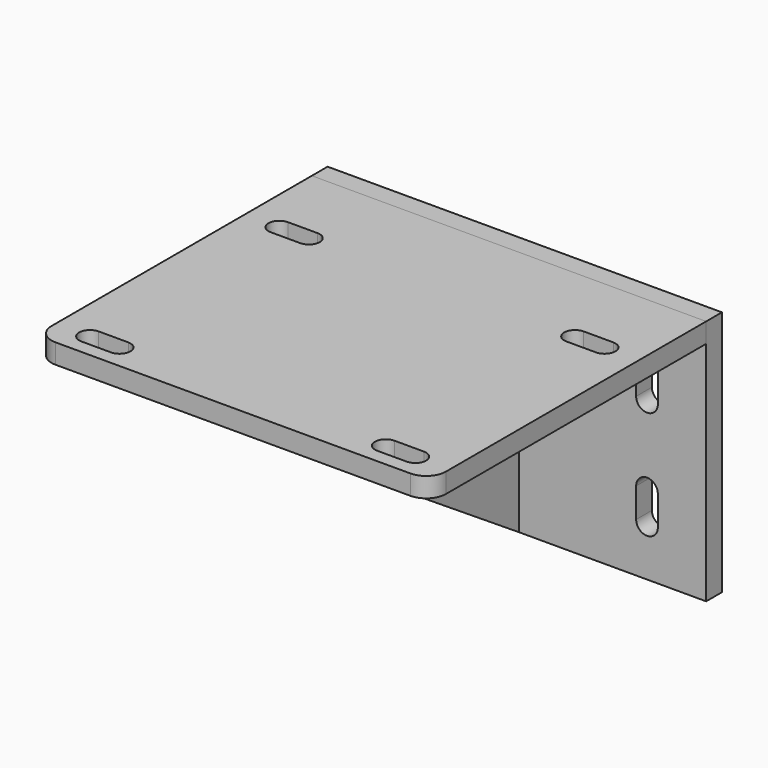
from build123d import *

# Parameters (mm, degrees)
F0_W     = 200
F0_H     = 125
F1_DEPTH = 5
F2_W     = 200
F2_H     = 10
F3_DEPTH = 175
F5_DEPTH = 10.001
F7_DEPTH = 5
F9_DEPTH = 125.001
F10_R    = 10


with BuildPart() as f1:
    # F0 (on Front) → F1 (new body, symmetric)
    with BuildSketch(Plane.XZ):
        Rectangle(F0_W, F0_H)
    extrude(amount=F1_DEPTH, both=True)

    # F4 (on face) → F5 (cut, through all)
    with BuildSketch(Plane.XZ.offset(5)):
        with BuildLine():
            ThreePointArc((-64.5, 32.5), (-70, 38), (-75.5, 32.5))
            Line((-75.5, 32.5), (-75.5, 17.5))
            ThreePointArc((-75.5, 17.5), (-70, 12), (-64.5, 17.5))
            Line((-64.5, 17.5), (-64.5, 32.5))
        make_face()
        with BuildLine():
            ThreePointArc((-64.5, -22.5), (-70, -17), (-75.5, -22.5))
            Line((-75.5, -22.5), (-75.5, -37.5))
            ThreePointArc((-75.5, -37.5), (-70, -43), (-64.5, -37.5))
            Line((-64.5, -37.5), (-64.5, -22.5))
        make_face()
        with BuildLine():
            ThreePointArc((75.5, 32.5), (70, 38), (64.5, 32.5))
            Line((64.5, 32.5), (64.5, 17.5))
            ThreePointArc((64.5, 17.5), (70, 12), (75.5, 17.5))
            Line((75.5, 17.5), (75.5, 32.5))
        make_face()
        with BuildLine():
            Line((75.5, -37.5), (75.5, -22.5))
            ThreePointArc((75.5, -22.5), (70, -17), (64.5, -22.5))
            Line((64.5, -22.5), (64.5, -37.5))
            ThreePointArc((64.5, -37.5), (70, -43), (75.5, -37.5))
        make_face()
    extrude(amount=-F5_DEPTH, mode=Mode.SUBTRACT)


with BuildPart() as f3:
    # F2 (on face) → F3 (new body)
    with BuildSketch(Plane.XZ.offset(5)):
        with Locations((0, 57.5)):
            Rectangle(F2_W, F2_H)
    extrude(amount=F3_DEPTH)

    # F8 (on face) → F9 (cut, through all)
    with BuildSketch(Plane.XY.offset(62.5)):
        with BuildLine():
            ThreePointArc((67.5, -42), (62, -47.5), (67.5, -53))
            Line((67.5, -53), (82.5, -53))
            ThreePointArc((82.5, -53), (88, -47.5), (82.5, -42))
            Line((82.5, -42), (67.5, -42))
        make_face()
        with BuildLine():
            ThreePointArc((67.5, -162), (62, -167.5), (67.5, -173))
            Line((67.5, -173), (82.5, -173))
            ThreePointArc((82.5, -173), (88, -167.5), (82.5, -162))
            Line((82.5, -162), (67.5, -162))
        make_face()
        with BuildLine():
            Line((-82.5, -53), (-67.5, -53))
            ThreePointArc((-67.5, -53), (-62, -47.5), (-67.5, -42))
            Line((-67.5, -42), (-82.5, -42))
            ThreePointArc((-82.5, -42), (-88, -47.5), (-82.5, -53))
        make_face()
        with BuildLine():
            Line((-82.5, -173), (-67.5, -173))
            ThreePointArc((-67.5, -173), (-62, -167.5), (-67.5, -162))
            Line((-67.5, -162), (-82.5, -162))
            ThreePointArc((-82.5, -162), (-88, -167.5), (-82.5, -173))
        make_face()
    extrude(amount=-F9_DEPTH, mode=Mode.SUBTRACT)

    # F10
    f10_edges = [f3.edges().sort_by_distance(p)[0] for p in [
        (100, -180, 57.5),
        (-100, -180, 57.5),
    ]]
    fillet(f10_edges, radius=F10_R)


with BuildPart() as f7:
    # F6 (on Right) → F7 (new body, symmetric)
    with BuildSketch(Plane.YZ):
        Polygon((-5, 52.5), (-180, 52.5), (-5, -62.5), align=None)
    extrude(amount=F7_DEPTH, both=True)


solid = Compound([f1.part, f3.part, f7.part])
